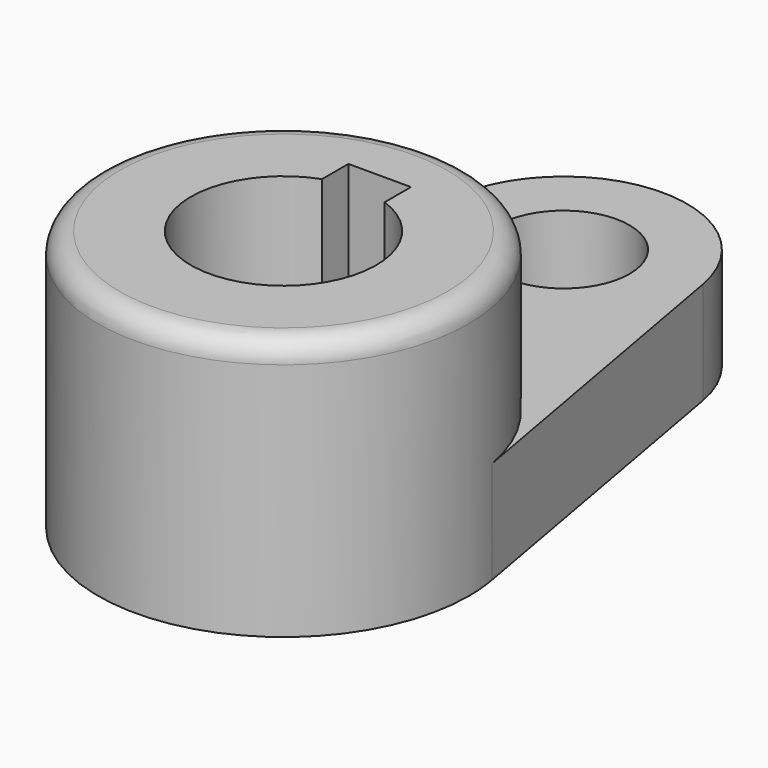
from build123d import *

# Parameters (mm, degrees)
F0_R     = 28.575
F0_R_2   = 14.2875
F1_DEPTH = 40.2336
F2_R     = 10.16
F3_DEPTH = 15.7734
F4_W     = 9.652
F4_H     = 5.0815351207
F5_DEPTH = 40.2336
F6_R     = 3.302


with BuildPart() as f1:
    # F0 (on Top) → F1 (new body)
    with BuildSketch(Plane.XY):
        Circle(F0_R)
        Circle(F0_R_2, mode=Mode.SUBTRACT)
    extrude(amount=F1_DEPTH)

    # F2 (on face) → F3 (join)
    with BuildSketch(Plane(origin=(0, 0, 0), x_dir=(1, 0, 0), z_dir=(0, 0, -1))):
        with BuildLine():
            Line((-28.1265415171, -5.042646853), (-18.7510276535, -57.3367647059))
            ThreePointArc((-18.7510276535, -57.3367647059), (0, -73.025), (18.7510276535, -57.3367647059))
            Line((18.7510276535, -57.3367647059), (28.1265414639, -5.0426471501))
            ThreePointArc((28.1265414639, -5.0426471501), (-1.509e-07, -28.575), (-28.1265415171, -5.042646853))
        make_face()
        with Locations((0, -53.975)):
            Circle(F2_R, mode=Mode.SUBTRACT)
    extrude(amount=-F3_DEPTH)

    # F4 (on face) → F5 (cut, through all)
    with BuildSketch(Plane.XY.offset(40.2336)):
        with Locations((0, 15.9885324397)):
            Rectangle(F4_W, F4_H)
    extrude(amount=-F5_DEPTH, mode=Mode.SUBTRACT)

    # F6
    f6_edges = [f1.edges().sort_by_distance(p)[0] for p in [
        (-28.575, 0, 40.2336),
    ]]
    fillet(f6_edges, radius=F6_R)


solid = f1.part
